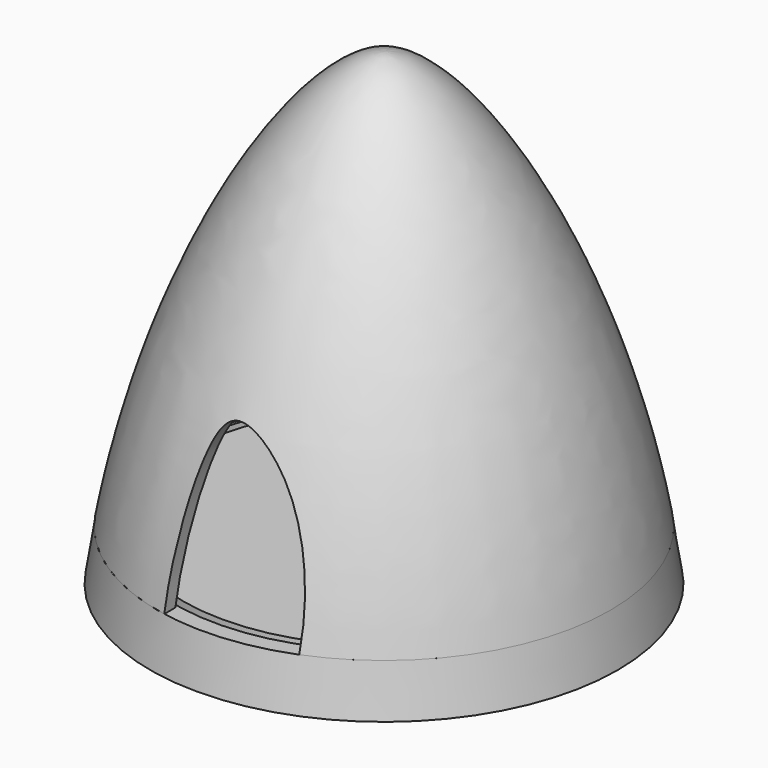
from build123d import *

# Parameters (mm, degrees)
F4_T     = -1.27
F6_DEPTH = 22.226
F7_DEPTH = 22.226


with BuildPart() as f3:
    # F0 (on Front) → F3 (revolve)
    with BuildSketch(Plane.XZ):
        with BuildLine():
            Line((0, 44.45), (0, 4.7625))
            Line((0, 4.7625), (21.5083249986, 4.7625))
            add(Edge.make_bspline(
                [(0, 44.45), (5.946441555, 44.45), (17.4614133727, 27.7444092122), (21.5083249986, 4.7625)],
                knots=[0, 0, 0, 0, 46.5382663946, 46.5382663946, 46.5382663946, 46.5382663946], degree=3))
        make_face()
    revolve(axis=Axis((0, 0, 22.225), (0, 0, 1)))

    # F4
    f4_openings = [f3.faces().sort_by_distance(p)[0] for p in [
        (0, 0, 4.7625),
    ]]
    offset(amount=F4_T, openings=f4_openings)

    # F2 (on Front) → F6 (cut, through all)
    with BuildSketch(Plane.XZ):
        with BuildLine():
            Line((-3.96875, 4.7625), (0, 4.7625))
            Line((0, 4.7625), (7.9375, 4.7625))
            add(Edge.make_bspline(
                [(7.9375, 4.7625), (8.19619575, 9.5892135891), (6.2215661548, 17.5401460485), (-0.2853430027, 21.880973366), (-3.0156434052, 17.2894066541), (-3.9833108895, 8.2385921851), (-3.96875, 4.7625)],
                knots=[0, 0, 0, 0, 0.3125509419, 0.5192218853, 0.690907323, 1, 1, 1, 1], degree=3))
        make_face()
    extrude(amount=F6_DEPTH, mode=Mode.SUBTRACT)

    # F2 (on Front) → F7 (cut, through all)
    with BuildSketch(Plane.XZ):
        with BuildLine():
            Line((-3.96875, 4.7625), (0, 4.7625))
            Line((0, 4.7625), (7.9375, 4.7625))
            add(Edge.make_bspline(
                [(7.9375, 4.7625), (8.19619575, 9.5892135891), (6.2215661548, 17.5401460485), (-0.2853430027, 21.880973366), (-3.0156434052, 17.2894066541), (-3.9833108895, 8.2385921851), (-3.96875, 4.7625)],
                knots=[0, 0, 0, 0, 0.3125509419, 0.5192218853, 0.690907323, 1, 1, 1, 1], degree=3))
        make_face()
    extrude(amount=-F7_DEPTH, mode=Mode.SUBTRACT)


with BuildPart() as f5:
    # F1 (on Front) → F5 (revolve)
    with BuildSketch(Plane.XZ):
        Polygon((3.175, 4.7625), (3.175, 0), (6.35, 0), (6.35, 3.175), (20.1597166657, 3.175), (20.6375, 0), (22.225, 0), (21.5083249986, 4.7625), (19.9208249986, 4.7625), (19.9208249986, 3.96875), (19.1270749986, 3.96875), (19.1270749986, 4.7625), align=None)
    revolve(axis=Axis((0, 0, 22.225), (0, 0, 1)))


solid = Compound([f3.part, f5.part])
